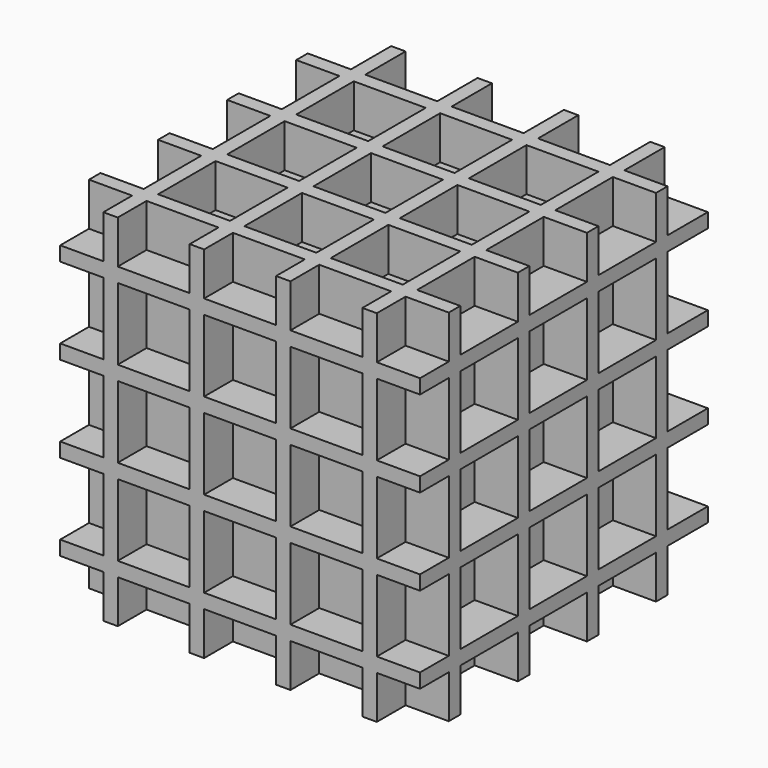
from build123d import *

# Parameters (mm, degrees)
BOX_W         = 10
BOX_H         = 10
BOX_DEPTH     = 10
ARRAY_X_COUNT = 5
ARRAY_X_PITCH = 12
ARRAY_Y_COUNT = 5
ARRAY_Y_PITCH = 12
ARRAY_Z_COUNT = 5
ARRAY_Z_PITCH = 12
BOX001_W      = 50
BOX001_H      = 50
BOX001_DEPTH  = 50


with BuildPart() as array:
    # Box → Box (new body)
    with BuildSketch(Plane.XY):
        with Locations((5, 5)):
            Rectangle(BOX_W, BOX_H)
    extrude(amount=BOX_DEPTH)

    # Array X: Array ×5


with BuildPart() as array_1:
    add(array.part)
    with Locations(*[(i * ARRAY_X_PITCH, 0, 0) for i in range(1, ARRAY_X_COUNT)]):
        add(array.part)

    # Array Y: Array ×5


with BuildPart() as array_2:
    add(array_1.part)
    with Locations(*[(0, i * ARRAY_Y_PITCH, 0) for i in range(1, ARRAY_Y_COUNT)]):
        add(array_1.part)

    # Array Z: Array ×5


with BuildPart() as array_3:
    add(array_2.part)
    with Locations(*[(0, 0, i * ARRAY_Z_PITCH) for i in range(1, ARRAY_Z_COUNT)]):
        add(array_2.part)


with BuildPart() as cut:
    # Box001 → Box001 (new body)
    with BuildSketch(Plane(origin=(4, 5, 4), x_dir=(1, 0, 0), z_dir=(0, 0, 1))):
        with Locations((25, 25)):
            Rectangle(BOX001_W, BOX001_H)
    extrude(amount=BOX001_DEPTH)

    # Cut: cut Array
    add(array_3.part, mode=Mode.SUBTRACT)


solid = cut.part
